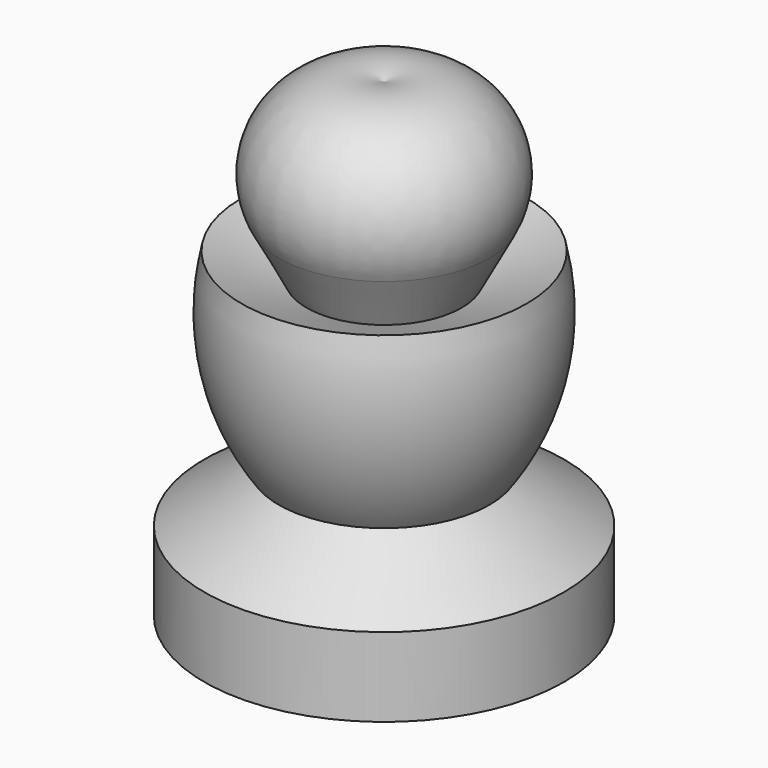
from build123d import *


with BuildPart() as f1:
    # F0 (on Front) → F1 (revolve)
    with BuildSketch(Plane.XZ):
        with BuildLine():
            Line((0, 0), (17.814128, 0))
            Line((17.814128, 0), (17.814128, 7.832074))
            Line((17.814128, 7.832074), (10.442763, 13.053455))
            ThreePointArc((10.442763, 13.053455), (14.308806, 22.023221), (14.128445, 31.789001))
            Line((14.128445, 31.789001), (7.678503, 29.331882))
            Line((7.678503, 29.331882), (10.442763, 34.553263))
            ThreePointArc((10.442763, 34.553263), (9.336051, 44.129644), (0, 46.531729))
            Line((0, 46.531729), (0, 0))
        make_face()
    revolve(axis=Axis((0, 0, 23.265865), (0, 0, 1)))


solid = f1.part
